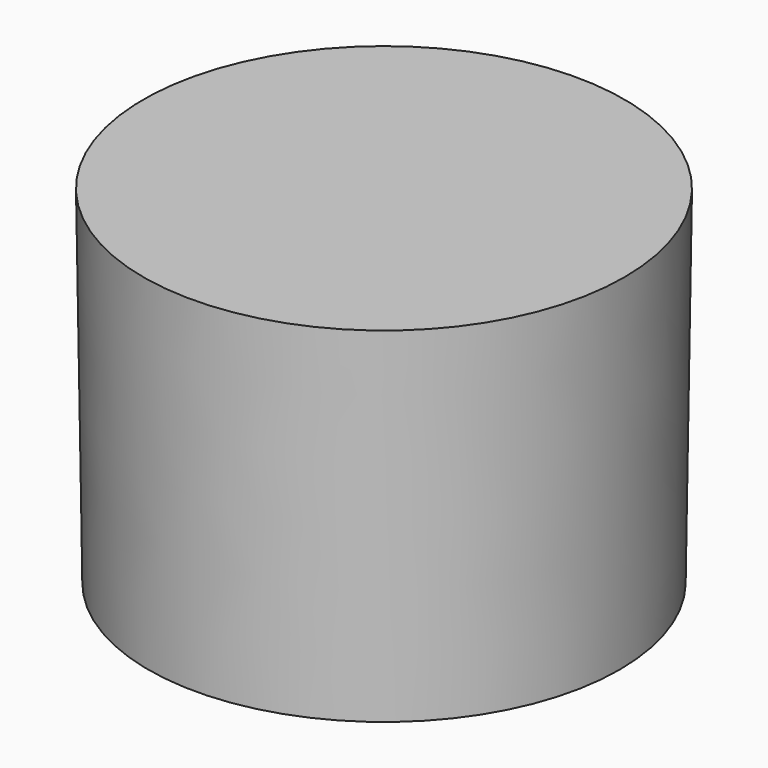
from build123d import *

# Parameters (mm, degrees)
SKETCH001_W  = 1
SKETCH001_H  = 3.8
PAD_DEPTH    = 6
PAD001_DEPTH = 4.2


with BuildPart() as part:
    # Sketch → Revolution (revolve)
    with BuildSketch(Plane.XZ):
        Polygon((0, 1), (4.85, 1), (4.75, -6), (3.75, -6), (3.835714, 0), (0, 0), align=None)
    revolve(axis=Axis((0, 0, 0), (0, 0, 1)))

    # Sketch001 → Pad (new body)
    with BuildSketch(Plane.XY):
        Polygon((-1, -1.9), (-1, -2.9), (-0.5, -2.9), (-0.5, -4.35), (0.5, -4.35), (0.5, -2.9), (1, -2.9), (1, -1.9), align=None)
        Polygon((-1, 2.9), (-1, 1.9), (1, 1.9), (1, 2.9), (0.5, 2.9), (0.5, 4.35), (-0.5, 4.35), (-0.5, 2.9), align=None)
        with Locations((2.4, 0)):
            Rectangle(SKETCH001_W, SKETCH001_H)
        with Locations((-2.4, 0)):
            Rectangle(SKETCH001_W, SKETCH001_H)
    extrude(amount=-PAD_DEPTH)

    # Sketch002 → Pad001 (join)
    with BuildSketch(Plane.XY):
        Polygon((-0.5, 2.5), (-0.5, 0.5), (-2.5, 0.5), (-2.5, -0.5), (-0.5, -0.5), (-0.5, -2.5), (0.5, -2.5), (0.5, -0.5), (2.5, -0.5), (2.5, 0.5), (0.5, 0.5), (0.5, 2.5), align=None)
    extrude(amount=-PAD001_DEPTH)


solid = part.part
